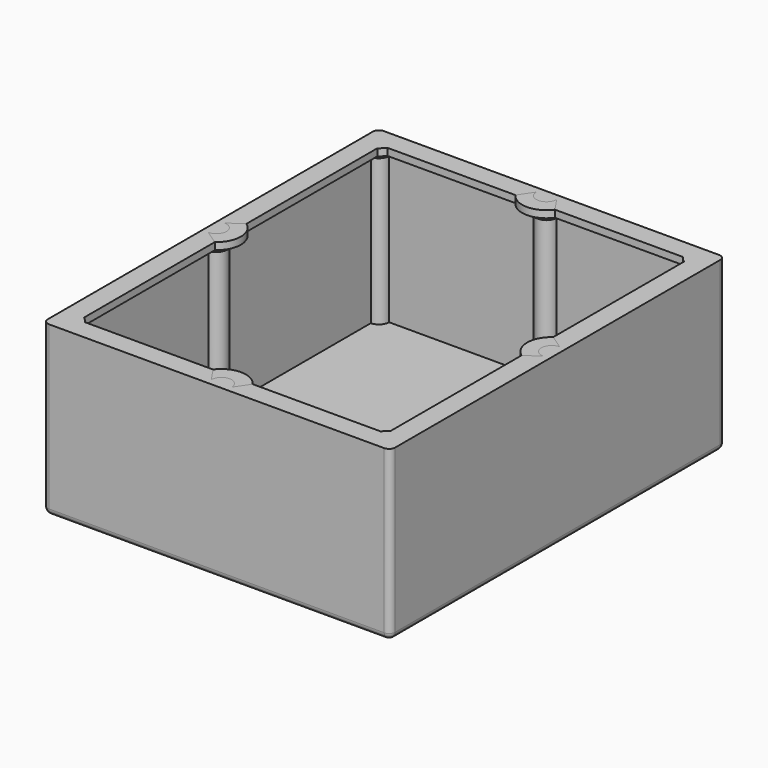
from build123d import *

# Parameters (mm, degrees)
SKETCH002_W  = 165
SKETCH002_H  = 200
PAD_DEPTH    = 80
THICKNESS_T  = 3
PAD004_DEPTH = 80


with BuildPart() as part:
    # Sketch002 → Pad (new body)
    with BuildSketch(Plane.XY):
        Rectangle(SKETCH002_W, SKETCH002_H)
    extrude(amount=PAD_DEPTH)

    # Thickness
    thickness_openings = [part.faces().sort_by_distance(p)[0] for p in [
        (0, 0, 80),
    ]]
    offset(amount=THICKNESS_T, openings=thickness_openings)

    # Sketch006 → Pad004 (join)
    with BuildSketch(Plane.XY.offset(80)):
        with BuildLine():
            ThreePointArc((-82.5, 95), (-78.964466, 96.464466), (-77.5, 100))
            Line((-82.5, 100), (-77.5, 100))
            Line((-82.5, 95), (-82.5, 100))
        make_face()
        with BuildLine():
            ThreePointArc((77.5, 100), (78.964466, 96.464466), (82.5, 95))
            Line((82.5, 100), (82.5, 95))
            Line((82.5, 100), (77.5, 100))
        make_face()
        with BuildLine():
            ThreePointArc((-77.5, -100), (-78.964466, -96.464466), (-82.5, -95))
            Line((-82.5, -100), (-82.5, -95))
            Line((-82.5, -100), (-77.5, -100))
        make_face()
        with BuildLine():
            ThreePointArc((82.5, -95), (78.964466, -96.464466), (77.5, -100))
            Line((77.5, -100), (82.5, -100))
            Line((82.5, -100), (82.5, -95))
        make_face()
        with BuildLine():
            ThreePointArc((5, -100), (0, -95), (-5, -100))
            Line((-5, -100), (5, -100))
        make_face()
        with BuildLine():
            ThreePointArc((-82.5, -5), (-77.5, 0), (-82.5, 5))
            Line((-82.5, 5), (-82.5, -5))
        make_face()
        with BuildLine():
            ThreePointArc((82.5, 5), (77.5, 0), (82.5, -5))
            Line((82.5, 5), (82.5, -5))
        make_face()
        with BuildLine():
            ThreePointArc((-5, 100), (0, 95), (5, 100))
            Line((-5, 100), (5, 100))
        make_face()
    extrude(amount=-PAD004_DEPTH)

    # AdditivePipe: sweep along a path in Sketch009
    with BuildLine(Plane.XY) as additivepipe_path:
        ThreePointArc((-82.5, 95), (-78.964466, 96.464466), (-77.5, 100))
        Line((-77.5, 100), (-5, 100))
        ThreePointArc((-5, 100), (0, 95), (5, 100))
        Line((5, 100), (77.5, 100))
        ThreePointArc((77.5, 100), (78.964466, 96.464466), (82.5, 95))
        Line((82.5, 95), (82.5, 5))
        ThreePointArc((82.5, 5), (77.5, 0), (82.5, -5))
        Line((82.5, -5), (82.5, -95))
        ThreePointArc((82.5, -95), (78.964466, -96.464466), (77.5, -100))
        Line((77.5, -100), (5, -100))
        ThreePointArc((5, -100), (0, -95), (-5, -100))
        Line((-5, -100), (-77.5, -100))
        ThreePointArc((-77.5, -100), (-78.964466, -96.464466), (-82.5, -95))
        Line((-82.5, -95), (-82.5, -5))
        ThreePointArc((-82.5, -5), (-77.5, 0), (-82.5, 5))
        Line((-82.5, 5), (-82.5, 95))
    # Sketch005 → AdditivePipe (sweep)
    with BuildSketch(Plane.XZ.offset(-5)):
        Polygon((-82.5, 80), (-82.5, 72), (-75.5, 76.5), (-75.5, 80), align=None)
    sweep(path=additivepipe_path.line, transition=Transition.RIGHT)


solid = part.part
